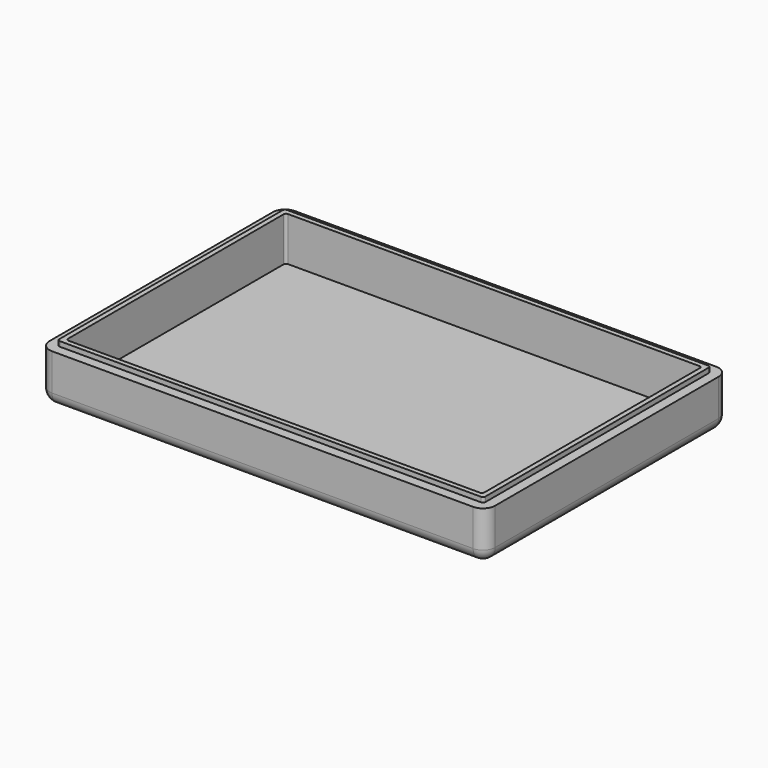
from build123d import *

# Parameters (mm, degrees)
F1_DEPTH = 2
F2_DEPTH = 10
F3_DEPTH = 11
F4_R     = 2.5


with BuildPart() as f1:
    # F0 (on Top) → F1 (new body)
    with BuildSketch(Plane.XY):
        with BuildLine():
            ThreePointArc((0, 2.5), (0.732233047, 0.732233047), (2.5, 0))
            Line((2.5, 0), (88.5, 0))
            ThreePointArc((88.5, 0), (90.267766953, 0.732233047), (91, 2.5))
            Line((91, 2.5), (91, 59.5))
            ThreePointArc((91, 59.5), (90.267766953, 61.267766953), (88.5, 62))
            Line((88.5, 62), (2.5, 62))
            ThreePointArc((2.5, 62), (0.732233047, 61.267766953), (0, 59.5))
            Line((0, 59.5), (0, 2.5))
        make_face()
        with BuildLine():
            Line((2, 2.5), (2, 59.5))
            ThreePointArc((2, 59.5), (2.1464466094, 59.8535533906), (2.5, 60))
            Line((2.5, 60), (88.5, 60))
            ThreePointArc((88.5, 60), (88.8535533906, 59.8535533906), (89, 59.5))
            Line((89, 59.5), (89, 2.5))
            ThreePointArc((89, 2.5), (88.8535533906, 2.1464466094), (88.5, 2))
            Line((88.5, 2), (2.5, 2))
            ThreePointArc((2.5, 2), (2.1464466094, 2.1464466094), (2, 2.5))
        make_face(mode=Mode.SUBTRACT)
        with BuildLine():
            ThreePointArc((2.5, 60), (2.1464466094, 59.8535533906), (2, 59.5))
            Line((2, 59.5), (2, 2.5))
            ThreePointArc((2, 2.5), (2.1464466094, 2.1464466094), (2.5, 2))
            Line((2.5, 2), (88.5, 2))
            ThreePointArc((88.5, 2), (88.8535533906, 2.1464466094), (89, 2.5))
            Line((89, 2.5), (89, 59.5))
            ThreePointArc((89, 59.5), (88.8535533906, 59.8535533906), (88.5, 60))
            Line((88.5, 60), (2.5, 60))
        make_face()
        with BuildLine():
            Line((3.5, 59), (87.5, 59))
            ThreePointArc((87.5, 59), (87.8535533906, 58.8535533906), (88, 58.5))
            Line((88, 58.5), (88, 3.5))
            ThreePointArc((88, 3.5), (87.8535533906, 3.1464466094), (87.5, 3))
            Line((87.5, 3), (3.5, 3))
            ThreePointArc((3.5, 3), (3.1464466094, 3.1464466094), (3, 3.5))
            Line((3, 3.5), (3, 58.5))
            ThreePointArc((3, 58.5), (3.1464466094, 58.8535533906), (3.5, 59))
        make_face(mode=Mode.SUBTRACT)
        with BuildLine():
            ThreePointArc((88, 58.5), (87.8535533906, 58.8535533906), (87.5, 59))
            Line((87.5, 59), (3.5, 59))
            ThreePointArc((3.5, 59), (3.1464466094, 58.8535533906), (3, 58.5))
            Line((3, 58.5), (3, 3.5))
            ThreePointArc((3, 3.5), (3.1464466094, 3.1464466094), (3.5, 3))
            Line((3.5, 3), (87.5, 3))
            ThreePointArc((87.5, 3), (87.8535533906, 3.1464466094), (88, 3.5))
            Line((88, 3.5), (88, 58.5))
        make_face()
    extrude(amount=F1_DEPTH)

    # F0 (on Top) → F2 (join)
    with BuildSketch(Plane.XY):
        with BuildLine():
            ThreePointArc((0, 2.5), (0.732233047, 0.732233047), (2.5, 0))
            Line((2.5, 0), (88.5, 0))
            ThreePointArc((88.5, 0), (90.267766953, 0.732233047), (91, 2.5))
            Line((91, 2.5), (91, 59.5))
            ThreePointArc((91, 59.5), (90.267766953, 61.267766953), (88.5, 62))
            Line((88.5, 62), (2.5, 62))
            ThreePointArc((2.5, 62), (0.732233047, 61.267766953), (0, 59.5))
            Line((0, 59.5), (0, 2.5))
        make_face()
        with BuildLine():
            Line((2, 2.5), (2, 59.5))
            ThreePointArc((2, 59.5), (2.1464466094, 59.8535533906), (2.5, 60))
            Line((2.5, 60), (88.5, 60))
            ThreePointArc((88.5, 60), (88.8535533906, 59.8535533906), (89, 59.5))
            Line((89, 59.5), (89, 2.5))
            ThreePointArc((89, 2.5), (88.8535533906, 2.1464466094), (88.5, 2))
            Line((88.5, 2), (2.5, 2))
            ThreePointArc((2.5, 2), (2.1464466094, 2.1464466094), (2, 2.5))
        make_face(mode=Mode.SUBTRACT)
    extrude(amount=F2_DEPTH)

    # F0 (on Top) → F3 (join)
    with BuildSketch(Plane.XY):
        with BuildLine():
            ThreePointArc((2.5, 60), (2.1464466094, 59.8535533906), (2, 59.5))
            Line((2, 59.5), (2, 2.5))
            ThreePointArc((2, 2.5), (2.1464466094, 2.1464466094), (2.5, 2))
            Line((2.5, 2), (88.5, 2))
            ThreePointArc((88.5, 2), (88.8535533906, 2.1464466094), (89, 2.5))
            Line((89, 2.5), (89, 59.5))
            ThreePointArc((89, 59.5), (88.8535533906, 59.8535533906), (88.5, 60))
            Line((88.5, 60), (2.5, 60))
        make_face()
        with BuildLine():
            Line((3.5, 59), (87.5, 59))
            ThreePointArc((87.5, 59), (87.8535533906, 58.8535533906), (88, 58.5))
            Line((88, 58.5), (88, 3.5))
            ThreePointArc((88, 3.5), (87.8535533906, 3.1464466094), (87.5, 3))
            Line((87.5, 3), (3.5, 3))
            ThreePointArc((3.5, 3), (3.1464466094, 3.1464466094), (3, 3.5))
            Line((3, 3.5), (3, 58.5))
            ThreePointArc((3, 58.5), (3.1464466094, 58.8535533906), (3.5, 59))
        make_face(mode=Mode.SUBTRACT)
    extrude(amount=F3_DEPTH)

    # F4
    f4_edges = [f1.edges().sort_by_distance(p)[0] for p in [
        (45.5, 0, 0),
    ]]
    fillet(f4_edges, radius=F4_R)


solid = f1.part
